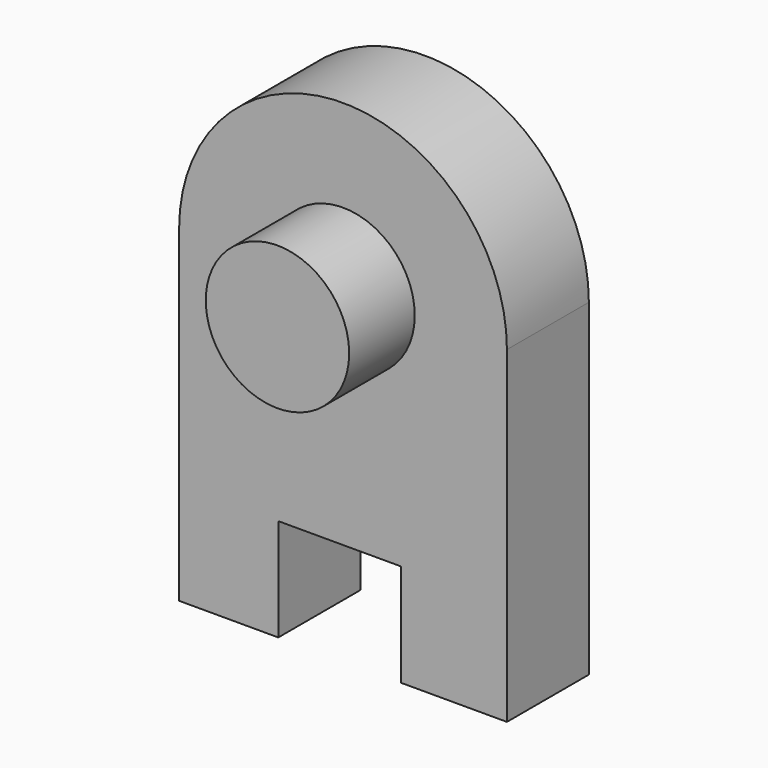
from build123d import *

# Parameters (mm, degrees)
F1_DEPTH = 250
F2_R     = 175
F3_DEPTH = 200


with BuildPart() as f1:
    # F0 (on Front) → F1 (new body)
    with BuildSketch(Plane.XZ):
        with BuildLine():
            Line((-400, 0), (400, 0))
            ThreePointArc((400, 0), (0, 400), (-400, 0))
        make_face()
        Polygon((400, -800), (400, 0), (-400, 0), (-400, -800), (-157.933652, -800), (-157.933652, -550), (142.066348, -550), (142.066348, -800), align=None)
    extrude(amount=F1_DEPTH)

    # F2 (on face) → F3 (join)
    with BuildSketch(Plane.XZ.offset(250)):
        Circle(F2_R)
    extrude(amount=F3_DEPTH)


solid = f1.part
